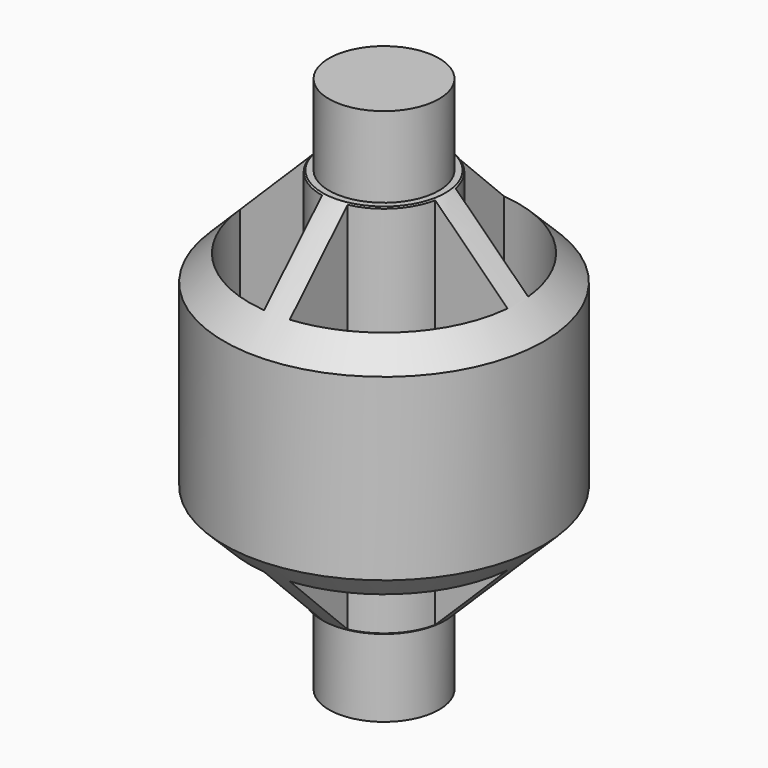
from build123d import *

# Parameters (mm, degrees)
F0_R     = 4.3
F0_R_2   = 2.3
F1_DEPTH = 21
F0_R_3   = 12.5
F2_DEPTH = 14.7


with BuildPart() as f1:
    # F0 (on Top) → F1 (new body, symmetric)
    with BuildSketch(Plane.XY):
        Circle(F0_R)
        Circle(F0_R_2, mode=Mode.SUBTRACT)
        Circle(F0_R_2)
    extrude(amount=F1_DEPTH, both=True)

    # F0 (on Top) → F2 (join, symmetric)
    with BuildSketch(Plane.XY):
        Circle(F0_R_3)
        with BuildLine():
            ThreePointArc((1, 10.4522724802), (7.4246212025, 7.4246212025), (10.4522724802, 1))
            ThreePointArc((10.4522724802, 1), (10.4880613328, 0.5005691551), (10.5, 0))
            ThreePointArc((10.5, 0), (10.4880613328, -0.5005691551), (10.4522724802, -1))
            ThreePointArc((10.4522724802, -1), (7.4246212025, -7.4246212025), (1, -10.4522724802))
            ThreePointArc((1, -10.4522724802), (0, -10.5), (-1, -10.4522724802))
            ThreePointArc((-1, -10.4522724802), (-7.4246212025, -7.4246212025), (-10.4522724802, -1))
            ThreePointArc((-10.4522724802, -1), (-10.5, 0), (-10.4522724802, 1))
            ThreePointArc((-10.4522724802, 1), (-7.4246212025, 7.4246212025), (-1, 10.4522724802))
            ThreePointArc((-1, 10.4522724802), (0, 10.5), (1, 10.4522724802))
        make_face(mode=Mode.SUBTRACT)
        with BuildLine():
            ThreePointArc((4.7968739821, -1), (4.8741503112, -0.5026517123), (4.9, 0))
            ThreePointArc((4.9, 0), (4.8741503112, 0.5026517123), (4.7968739821, 1))
            ThreePointArc((4.7968739821, 1), (3.4648232278, 3.4648232278), (1, 4.7968739821))
            ThreePointArc((1, 4.7968739821), (0, 4.9), (-1, 4.7968739821))
            ThreePointArc((-1, 4.7968739821), (-3.4648232278, 3.4648232278), (-4.7968739821, 1))
            ThreePointArc((-4.7968739821, 1), (-4.9, 0), (-4.7968739821, -1))
            ThreePointArc((-4.7968739821, -1), (-3.4648232278, -3.4648232278), (-1, -4.7968739821))
            ThreePointArc((-1, -4.7968739821), (0, -4.9), (1, -4.7968739821))
            ThreePointArc((1, -4.7968739821), (3.4648232278, -3.4648232278), (4.7968739821, -1))
        make_face()
        Circle(F0_R, mode=Mode.SUBTRACT)
        with BuildLine():
            ThreePointArc((-4.7968739821, -1), (-4.9, 0), (-4.7968739821, 1))
            Line((-4.7968739821, 1), (-10.4522724802, 1))
            ThreePointArc((-10.4522724802, 1), (-10.5, 0), (-10.4522724802, -1))
            Line((-10.4522724802, -1), (-4.7968739821, -1))
        make_face()
        with BuildLine():
            Line((1, -10.4522724802), (1, -4.7968739821))
            ThreePointArc((1, -4.7968739821), (0, -4.9), (-1, -4.7968739821))
            Line((-1, -4.7968739821), (-1, -10.4522724802))
            ThreePointArc((-1, -10.4522724802), (0, -10.5), (1, -10.4522724802))
        make_face()
        with BuildLine():
            ThreePointArc((4.7968739821, 1), (4.8741503112, 0.5026517123), (4.9, 0))
            ThreePointArc((4.9, 0), (4.8741503112, -0.5026517123), (4.7968739821, -1))
            Line((4.7968739821, -1), (10.4522724802, -1))
            ThreePointArc((10.4522724802, -1), (10.4880613328, -0.5005691551), (10.5, 0))
            ThreePointArc((10.5, 0), (10.4880613328, 0.5005691551), (10.4522724802, 1))
            Line((10.4522724802, 1), (4.7968739821, 1))
        make_face()
        with BuildLine():
            ThreePointArc((-1, 4.7968739821), (0, 4.9), (1, 4.7968739821))
            Line((1, 4.7968739821), (1, 10.4522724802))
            ThreePointArc((1, 10.4522724802), (0, 10.5), (-1, 10.4522724802))
            Line((-1, 10.4522724802), (-1, 4.7968739821))
        make_face()
    extrude(amount=F2_DEPTH, both=True)

    # F3 (on Front) → F4 (revolve, cut)
    with BuildSketch(Plane.XZ):
        Polygon((-13.4317712075, 14.7), (-13.4317712075, 6.0651027746), (-4.7968739821, 14.7), align=None)
        Polygon((-13.4317712075, -14.7), (-4.7968739821, -14.7), (-13.4317712075, -6.0651027746), align=None)
    revolve(axis=Axis((0, 0, -14.7), (0, 0, 1)), mode=Mode.SUBTRACT)


solid = f1.part
